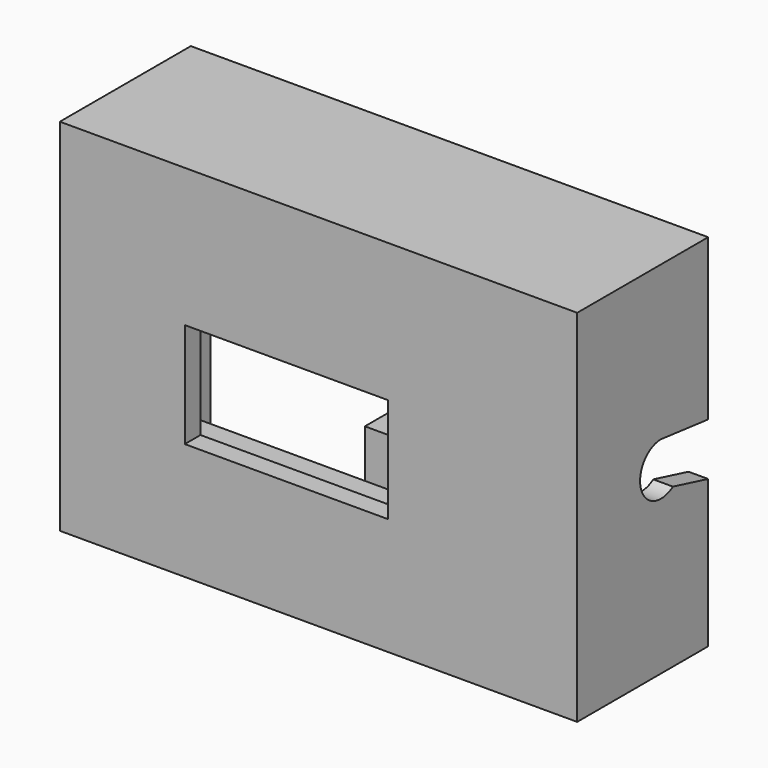
from build123d import *

# Parameters (mm, degrees)
F0_W      = 79
F0_H      = 55
F0_W_2    = 73
F0_H_2    = 49
F1_DEPTH  = 25
F3_DEPTH  = 79
F0_W_3    = 31
F0_H_3    = 16
F4_DEPTH  = 3
F5_W      = 6
F5_H      = 4
F6_DEPTH  = 3
F5_W_2    = 37
F5_W_3    = 7
F7_DEPTH  = 6
F8_W      = 5
F8_H      = 5
F9_DEPTH  = 12.86194
F10_R     = 1.75
F11_DEPTH = 4


with BuildPart() as f1:
    # F0 (on Front) → F1 (new body)
    with BuildSketch(Plane.XZ):
        Rectangle(F0_W, F0_H)
        Rectangle(F0_W_2, F0_H_2, mode=Mode.SUBTRACT)
    extrude(amount=-F1_DEPTH)

    # F2 (on face) → F3 (cut, through all)
    with BuildSketch(Plane(origin=(-39.5, 0, 0), x_dir=(0, -1, 0), z_dir=(-1, 0, 0))):
        with BuildLine():
            Line((-25, -5), (-18.267742, -3.295049))
            ThreePointArc((-18.267742, -3.295049), (-12.180301, -1.187393), (-16, 4))
            Line((-16, 4), (-16.878049, 3.902439))
            Line((-16.878049, 3.902439), (-25, 3))
            Line((-25, 3), (-25, -5))
        make_face()
    extrude(amount=-F3_DEPTH, mode=Mode.SUBTRACT)

    # F0 (on Front) → F4 (join)
    with BuildSketch(Plane.XZ):
        Rectangle(F0_W_2, F0_H_2)
        with Locations((-4.921641, -1.63806)):
            Rectangle(F0_W_3, F0_H_3, mode=Mode.SUBTRACT)
    extrude(amount=-F4_DEPTH)

    # F5 (on face) → F6 (join)
    with BuildSketch(Plane(origin=(0, 3, 0), x_dir=(-1, 0, 0), z_dir=(0, 1, 0))):
        with Locations((-8.578359, -13.63806)):
            Rectangle(F5_W, F5_H)
    extrude(amount=F6_DEPTH)

    # F5 (on face) → F7 (join)
    with BuildSketch(Plane(origin=(0, 3, 0), x_dir=(-1, 0, 0), z_dir=(0, 1, 0))):
        with Locations((12.921641, -13.63806)):
            Rectangle(F5_W_2, F5_H)
        with Locations((-15.078359, -13.63806)):
            Rectangle(F5_W_3, F5_H)
    extrude(amount=F7_DEPTH)

    # F8 (on face) → F9 (join)
    with BuildSketch(Plane.XY.offset(-24.5)):
        with Locations((-6.421641, 22.5)):
            Rectangle(F8_W, F8_H)
    extrude(amount=F9_DEPTH)

    # F10 (on face) → F11 (cut, through all)
    with BuildSketch(Plane.XY.offset(-11.63806)):
        with Locations((14.828359, 5.95)):
            Circle(F10_R)
        with Locations((-28.071641, 5.95)):
            Circle(F10_R)
    extrude(amount=-F11_DEPTH, mode=Mode.SUBTRACT)


solid = f1.part
